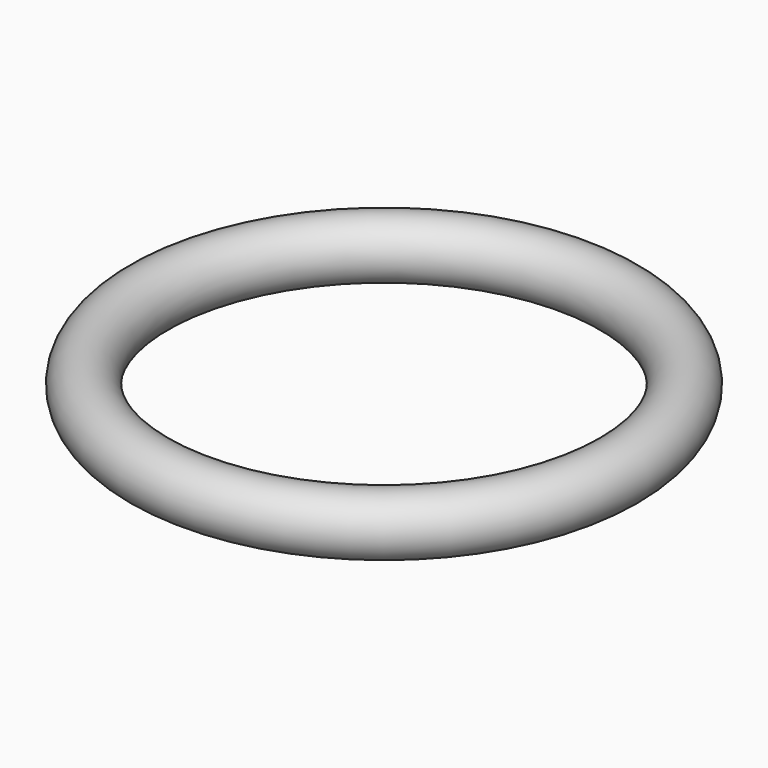
from build123d import *

# Parameters (mm, degrees)
F1_R = 1


with BuildPart() as f2:
    # F2: sweep along a path in F0
    with BuildLine(Plane.XY) as f2_path:
        CenterArc((0, 0), 8, 0, 360)
    # F1 (on Right) → F2 (sweep)
    with BuildSketch(Plane.YZ):
        with Locations((-8, 0)):
            Circle(F1_R)
    sweep(path=f2_path.line)


solid = f2.part
